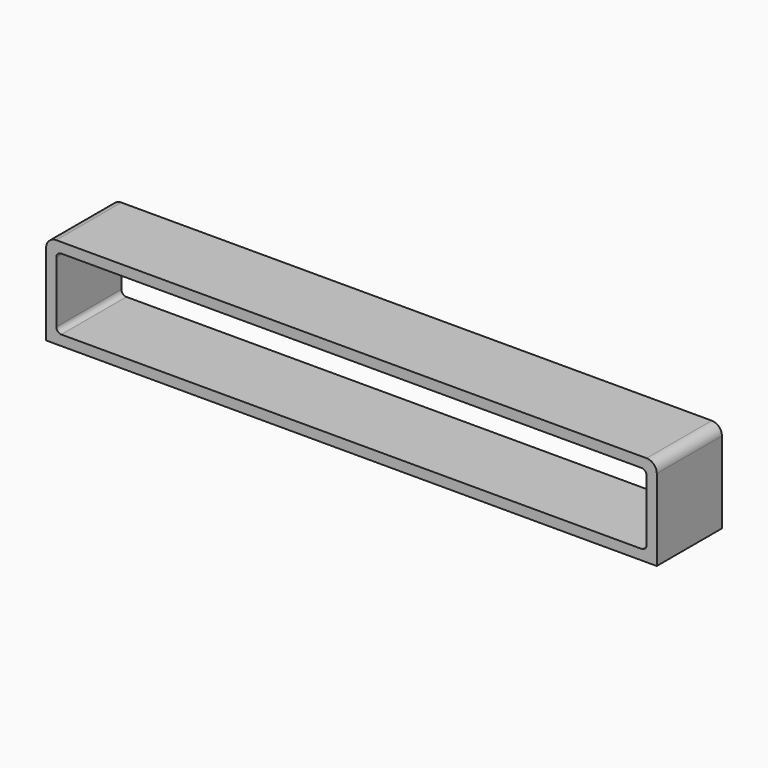
from build123d import *

# Parameters (mm, degrees)
F0_W     = 381
F0_H     = 57.15
F1_DEPTH = 50.8
F3_W     = 368.3
F3_H     = 44.45
F4_DEPTH = 50.8
F5_R     = 3.175
F9_R     = 6.35


with BuildPart() as f1:
    # F0 (on Front) → F1 (new body)
    with BuildSketch(Plane.XZ):
        Rectangle(F0_W, F0_H)
    extrude(amount=F1_DEPTH)


with BuildPart() as f1_1:
    # F2: moved
    add(f1.part.moved(Location((0, 50.8, 0))))

    # F3 (on Front) → F4 (cut)
    with BuildSketch(Plane.XZ):
        Rectangle(F3_W, F3_H)
    extrude(amount=-F4_DEPTH, mode=Mode.SUBTRACT)

    # F5
    f5_edges = [f1_1.edges().sort_by_distance(p)[0] for p in [
        (184.15, 25.4, -22.225),
        (184.15, 25.4, 22.225),
        (-184.15, 25.4, 22.225),
        (-184.15, 25.4, -22.225),
    ]]
    fillet(f5_edges, radius=F5_R)


with BuildPart() as f1_2:
    # F6: moved
    add(f1_1.part.moved(Location((0, 50.8, 0))))


with BuildPart() as f1_3:
    # F7: moved
    add(f1_2.part.moved(Location((0, 0, -101.6))))


with BuildPart() as f1_4:
    # F8: moved
    add(f1_3.part.moved(Location((0, 50.8, 50.8))))

    # F9
    f9_edges = [f1_4.edges().sort_by_distance(p)[0] for p in [
        (190.5, 127, -22.225),
        (-190.5, 127, -22.225),
    ]]
    fillet(f9_edges, radius=F9_R)


solid = f1_4.part
